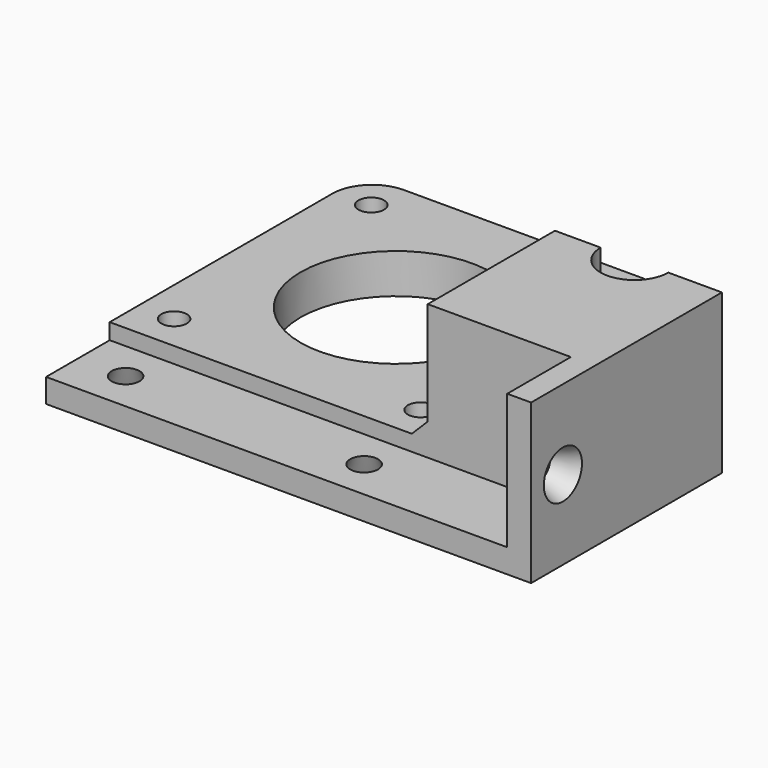
from build123d import *

# Parameters (mm, degrees)
BOX008_W          = 58
BOX008_H          = 10
BOX008_DEPTH      = 3
CONE_PITCH_ANGLE  = 90
CYLINDER001_R     = 6
CYLINDER001_DEPTH = 4
CYLINDER_R        = 8
CYLINDER_DEPTH    = 4
PAD001_DEPTH      = 15
SKETCH_R          = 12
SKETCH_R_2        = 1.6
PAD_DEPTH         = 20
CHAMFER003_SIZE   = 2
FILLET_R          = 5


with BuildPart() as obj1:
    # Box008 → Box008 (new body)
    with BuildSketch(Plane(origin=(3, 0, 3), x_dir=(1, 0, 0), z_dir=(0, 0, 1))):
        with Locations((29, 5)):
            Rectangle(BOX008_W, BOX008_H)
    extrude(amount=BOX008_DEPTH)


with BuildPart() as cone_forat_cargol003:
    # Cone002 → Cone002 (revolve)
    with BuildSketch(Plane(origin=(55, 5, 0), x_dir=(1, 0, 0), z_dir=(0, -1, 0))):
        Polygon((0, 0), (3, 0), (1.75, 3), (0, 3), align=None)
    revolve(axis=Axis((55, 5, 0), (0, 0, 1)))


with BuildPart() as cone_forat_cargol002:
    # Cone001 → Cone001 (revolve)
    with BuildSketch(Plane(origin=(25, 5, 0), x_dir=(1, 0, 0), z_dir=(0, -1, 0))):
        Polygon((0, 0), (3, 0), (1.75, 3), (0, 3), align=None)
    revolve(axis=Axis((25, 5, 0), (0, 0, 1)))


with BuildPart() as cone_forat_cargol001:
    # Cone → Cone (revolve)
    with BuildSketch(Plane.XZ):
        Polygon((0, 0), (3, 0), (1.75, 3), (0, 3), align=None)
    revolve(axis=Axis((0, 0, 0), (0, 0, 1)))


with BuildPart() as cone_forat_cargol001_1:
    # Cone pitch: moved
    add(cone_forat_cargol001.part.rotate(Axis((0, 0, 0), (0, 1, 0)), CONE_PITCH_ANGLE))


with BuildPart() as cone_forat_cargol001_2:
    # Cone placement: moved
    add(cone_forat_cargol001_1.part.moved(Location((0, 5, 10))))


with BuildPart() as cyl_brida_int:
    # Cylinder001 → Cylinder001 (new body)
    with BuildSketch(Plane.XY):
        Circle(CYLINDER001_R)
    extrude(amount=CYLINDER001_DEPTH)


with BuildPart() as cyl_brida_ext:
    # Cylinder → Cylinder (new body)
    with BuildSketch(Plane.XY):
        Circle(CYLINDER_R)
    extrude(amount=CYLINDER_DEPTH)


with BuildPart() as obj2:
    # Cut002 base: copy of Cyl-brida-ext
    add(cyl_brida_ext.part)

    # Cut002: cut Cyl-brida-int
    add(cyl_brida_int.part, mode=Mode.SUBTRACT)


with BuildPart() as obj2_1:
    # Cut002 placement: moved
    add(obj2.part.moved(Location((10, 30, 12))))


with BuildPart() as obj3:
    # Cut001 base: copy of Cyl-brida-ext
    add(cyl_brida_ext.part)

    # Cut001: cut Cyl-brida-int
    add(cyl_brida_int.part, mode=Mode.SUBTRACT)


with BuildPart() as obj3_1:
    # Cut001 placement: moved
    add(obj3.part.moved(Location((10, 30, 4))))


with BuildPart() as obj4:
    # Sketch001 → Pad001 (new body)
    with BuildSketch(Plane.XY.offset(5)):
        Polygon((3, 10), (21, 10), (21, 50), (61, 50), (61, 0), (3, 0), align=None)
    extrude(amount=PAD001_DEPTH)


with BuildPart() as y_end_motor:
    # Sketch → Pad (new body)
    with BuildSketch(Plane.XY):
        with BuildLine():
            ThreePointArc((6.75, 30), (11, 25.75), (15.25, 30))
            Line((15.25, 30), (21, 30))
            Line((21, 30), (21, 50))
            Line((21, 50), (61, 50))
            Line((61, 50), (61, 0))
            Line((0, 0), (61, 0))
            Line((0, 30), (0, 0))
            Line((6.75, 30), (0, 30))
        make_face()
        with Locations((41, 30)):
            Circle(SKETCH_R, mode=Mode.SUBTRACT)
        with Locations((25.500268, 45.500268)):
            Circle(SKETCH_R_2, mode=Mode.SUBTRACT)
        with Locations((25.499732, 14.500268)):
            Circle(SKETCH_R_2, mode=Mode.SUBTRACT)
        with Locations((56.499732, 14.499732)):
            Circle(SKETCH_R_2, mode=Mode.SUBTRACT)
        with Locations((56.500268, 45.499732)):
            Circle(SKETCH_R_2, mode=Mode.SUBTRACT)
    extrude(amount=PAD_DEPTH)

    # Cut: cut obj4
    add(obj4.part, mode=Mode.SUBTRACT)

    # Cut003: cut obj3
    add(obj3_1.part, mode=Mode.SUBTRACT)

    # Cut004: cut obj2
    add(obj2_1.part, mode=Mode.SUBTRACT)

    # Cut005: cut Cone-forat-cargol001
    add(cone_forat_cargol001_2.part, mode=Mode.SUBTRACT)

    # Cut006: cut Cone-forat-cargol002
    add(cone_forat_cargol002.part, mode=Mode.SUBTRACT)

    # Cut007: cut Cone-forat-cargol003
    add(cone_forat_cargol003.part, mode=Mode.SUBTRACT)

    # Cut027: cut obj1
    add(obj1.part, mode=Mode.SUBTRACT)

    # Chamfer003
    chamfer003_edges = [y_end_motor.edges().sort_by_distance(p)[0] for p in [
        (21, 20, 5),
    ]]
    chamfer(chamfer003_edges, length=CHAMFER003_SIZE)

    # Fillet
    fillet_edges = [y_end_motor.edges().sort_by_distance(p)[0] for p in [
        (21, 50, 2.5),
        (61, 50, 2.5),
    ]]
    fillet(fillet_edges, radius=FILLET_R)


with BuildPart() as part_mirroring:
    # Part__Mirroring: instance of y-end-motor
    add(y_end_motor.part.mirror(Plane(origin=(0, 0, 0), x_dir=(0, -1, 0), z_dir=(1, 0, 0))))


solid = part_mirroring.part
